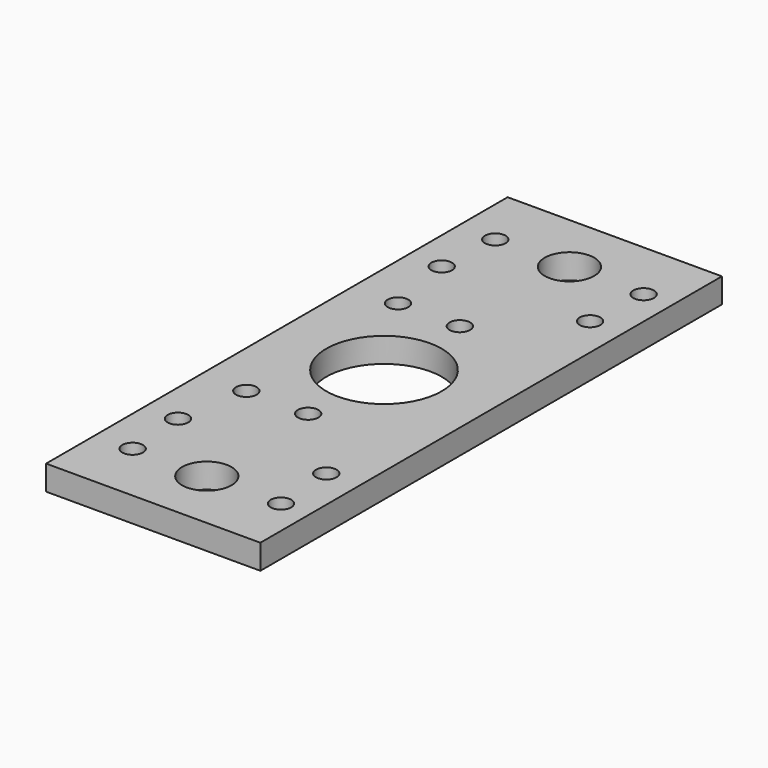
from build123d import *

# Parameters (mm, degrees)
SKETCH_W   = 52
SKETCH_H   = 140
SKETCH_R   = 14
SKETCH_R_2 = 2.5
SKETCH_R_3 = 6
PAD_DEPTH  = 6


with BuildPart() as part:
    # Sketch → Pad (new body)
    with BuildSketch(Plane.XY):
        Rectangle(SKETCH_W, SKETCH_H)
        Circle(SKETCH_R, mode=Mode.SUBTRACT)
        with Locations((-15, 23)):
            Circle(SKETCH_R_2, mode=Mode.SUBTRACT)
        with Locations((0, 23)):
            Circle(SKETCH_R_2, mode=Mode.SUBTRACT)
        with Locations((-15, -23)):
            Circle(SKETCH_R_2, mode=Mode.SUBTRACT)
        with Locations((0, -23)):
            Circle(SKETCH_R_2, mode=Mode.SUBTRACT)
        with Locations((-18, 40)):
            Circle(SKETCH_R_2, mode=Mode.SUBTRACT)
        with Locations((18, 40)):
            Circle(SKETCH_R_2, mode=Mode.SUBTRACT)
        with Locations((18, -40)):
            Circle(SKETCH_R_2, mode=Mode.SUBTRACT)
        with Locations((-18, -40)):
            Circle(SKETCH_R_2, mode=Mode.SUBTRACT)
        with Locations((1, 55)):
            Circle(SKETCH_R_3, mode=Mode.SUBTRACT)
        with Locations((1, -55)):
            Circle(SKETCH_R_3, mode=Mode.SUBTRACT)
        with Locations((-17, 55)):
            Circle(SKETCH_R_2, mode=Mode.SUBTRACT)
        with Locations((19, 55)):
            Circle(SKETCH_R_2, mode=Mode.SUBTRACT)
        with Locations((-17, -55)):
            Circle(SKETCH_R_2, mode=Mode.SUBTRACT)
        with Locations((19, -55)):
            Circle(SKETCH_R_2, mode=Mode.SUBTRACT)
    extrude(amount=PAD_DEPTH)


solid = part.part
